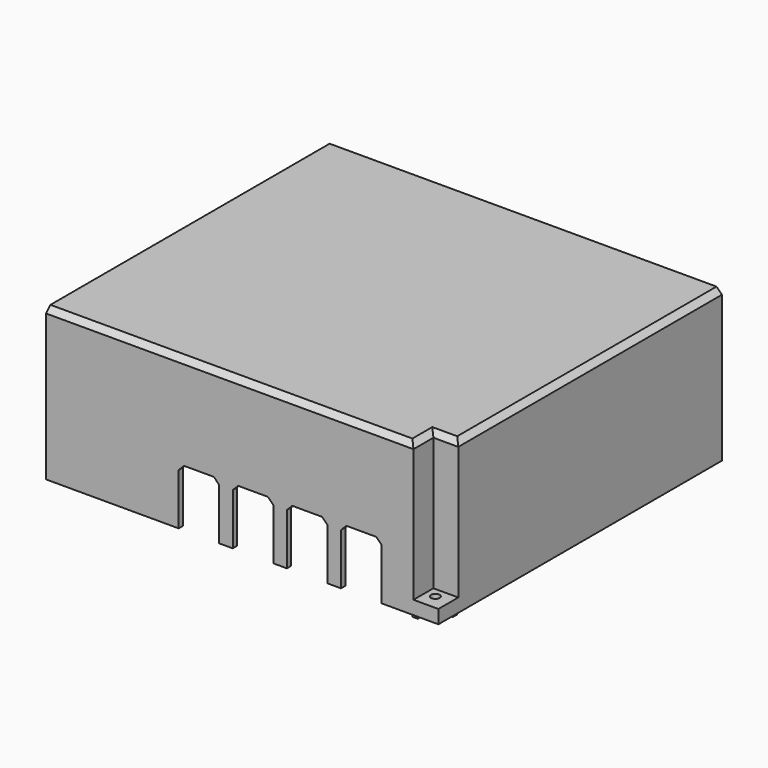
from build123d import *

# Parameters (mm, degrees)
SKETCH_1_W      = 140
SKETCH_1_H      = 116
PAD_DEPTH       = 5
SKETCH_W        = 140
SKETCH_H        = 15
PAD001_DEPTH    = 5
SKETCH001_W     = 131
SKETCH001_H     = 5
PAD002_DEPTH    = 5
SKETCH002_W     = 9.2
SKETCH002_H     = 9.2
POCKET_DEPTH    = 5
SKETCH003_W     = 102.8
SKETCH003_H     = 2
PAD003_DEPTH    = 51
SKETCH004_W     = 2
SKETCH004_H     = 121.8
PAD004_DEPTH    = 51
PAD005_DEPTH    = 53
SKETCH006_W     = 15
SKETCH006_H     = 41
POCKET001_DEPTH = 2
SKETCH007_W     = 9.2
SKETCH007_H     = 5
PAD006_DEPTH    = 9.2
SKETCH008_R     = 1.6
POCKET002_DEPTH = 5
SKETCH009_W     = 33
SKETCH009_H     = 2
PAD007_DEPTH    = 51
SKETCH010_W     = 108.1
SKETCH010_H     = 2.08
POCKET003_DEPTH = 11
SKETCH011_W     = 122.1
SKETCH011_H     = 2.08
POCKET004_DEPTH = 11
CHAMFER_SIZE    = 2
PAD008_DEPTH    = 51
CHAMFER001_SIZE = 2


with BuildPart() as part:
    # Sketch_1 → Pad (new body)
    with BuildSketch(Plane.XY):
        with Locations((-70, 58)):
            Rectangle(SKETCH_1_W, SKETCH_1_H)
    extrude(amount=PAD_DEPTH)

    # Sketch → Pad001 (join)
    with BuildSketch(Plane.XY):
        with Locations((-70, -7.5)):
            Rectangle(SKETCH_W, SKETCH_H)
    extrude(amount=PAD001_DEPTH)

    # Sketch001 (on Face9 of Pad001) → Pad002 (join)
    with BuildSketch(Plane.YZ):
        with Locations((50.5, 2.5)):
            Rectangle(SKETCH001_W, SKETCH001_H)
    extrude(amount=PAD002_DEPTH)

    # Sketch002 (on Face11 of Pad002) → Pocket (cut)
    with BuildSketch(Plane.XY.offset(5)):
        with Locations((0.4, -10.4)):
            Rectangle(SKETCH002_W, SKETCH002_H)
    extrude(amount=-POCKET_DEPTH, mode=Mode.SUBTRACT)

    # Sketch003 (on Face7 of Pocket) → Pad003 (join)
    with BuildSketch(Plane(origin=(0, 0, 0), x_dir=(1, 0, 0), z_dir=(0, 0, -1))):
        with Locations((-55.6, 14)):
            Rectangle(SKETCH003_W, SKETCH003_H)
    extrude(amount=PAD003_DEPTH)

    # Sketch004 (on Face10 of Pad003) → Pad004 (join)
    with BuildSketch(Plane(origin=(0, 0, 0), x_dir=(1, 0, 0), z_dir=(0, 0, -1))):
        with Locations((4, -55.1)):
            Rectangle(SKETCH004_W, SKETCH004_H)
    extrude(amount=PAD004_DEPTH)

    # Sketch005 (on Face7 of Pad004) → Pad005 (join)
    with BuildSketch(Plane(origin=(0, 0, 0), x_dir=(1, 0, 0), z_dir=(0, 0, -1))):
        Polygon((-4.2, 13), (-6.2, 13), (-6.2, 3.8), (3, 3.8), (3, 5.8), (-4.2, 5.8), align=None)
    extrude(amount=PAD005_DEPTH)

    # Sketch006 (on Face12 of Pad005) → Pocket001 (cut)
    with BuildSketch(Plane.XZ.offset(15)):
        with Locations((-23.5, -50.5)):
            Rectangle(SKETCH006_W, SKETCH006_H)
        with Locations((-43.5, -50.5)):
            Rectangle(SKETCH006_W, SKETCH006_H)
        with Locations((-63.5, -50.5)):
            Rectangle(SKETCH006_W, SKETCH006_H)
        with Locations((-83.5, -50.5)):
            Rectangle(SKETCH006_W, SKETCH006_H)
    extrude(amount=-POCKET001_DEPTH, mode=Mode.SUBTRACT)

    # Sketch007 (on Face44 of Pocket001) → Pad006 (join)
    with BuildSketch(Plane.XZ.offset(5.8)):
        with Locations((0.4, -48.5)):
            Rectangle(SKETCH007_W, SKETCH007_H)
    extrude(amount=PAD006_DEPTH)

    # Sketch008 (on Face50 of Pad006) → Pocket002 (cut)
    with BuildSketch(Plane.XY.offset(-46)):
        with Locations((-0.6, -9.4)):
            Circle(SKETCH008_R)
    extrude(amount=-POCKET002_DEPTH, mode=Mode.SUBTRACT)

    # Sketch009 (on Face7 of Pocket002) → Pad007 (join)
    with BuildSketch(Plane(origin=(0, 0, 0), x_dir=(1, 0, 0), z_dir=(0, 0, -1))):
        with Locations((-123.5, 14)):
            Rectangle(SKETCH009_W, SKETCH009_H)
    extrude(amount=PAD007_DEPTH)

    # Sketch010 (on Face1 of Pad007) → Pocket003 (cut)
    with BuildSketch(Plane(origin=(-140, 0, 0), x_dir=(0, -1, 0), z_dir=(-1, 0, 0))):
        with Locations((-41, 2.54)):
            Rectangle(SKETCH010_W, SKETCH010_H)
    extrude(amount=-POCKET003_DEPTH, mode=Mode.SUBTRACT)

    # Sketch011 (on Face3 of Pocket003) → Pocket004 (cut)
    with BuildSketch(Plane(origin=(0, 116, 0), x_dir=(-1, 0, 0), z_dir=(0, 1, 0))):
        with Locations((58, 2.54)):
            Rectangle(SKETCH011_W, SKETCH011_H)
    extrude(amount=-POCKET004_DEPTH, mode=Mode.SUBTRACT)

    # Chamfer
    chamfer_edges = [part.edges().sort_by_distance(p)[0] for p in [
        (-72.1, -15, 5),
        (-4.2, -10.4, 5),
        (-2.1, -5.8, 5),
        (2.5, -5.8, 5),
        (5, 55.1, 5),
    ]]
    chamfer(chamfer_edges, length=CHAMFER_SIZE)

    # Sketch012 (on Face23 of Chamfer) → Pad008 (join)
    with BuildSketch(Plane(origin=(0, 0, 0), x_dir=(1, 0, 0), z_dir=(0, 0, -1))):
        Polygon((2, -114), (2, -117.5), (3, -117.5), (3, -114), (3, -113), align=None)
    extrude(amount=PAD008_DEPTH)

    # Chamfer001
    chamfer001_edges = [part.edges().sort_by_distance(p)[0] for p in [
        (-91, -14, -30),
        (-76, -14, -30),
        (-71, -14, -30),
        (-56, -14, -30),
        (-51, -14, -30),
        (-36, -14, -30),
        (-31, -14, -30),
        (-16, -14, -30),
    ]]
    chamfer(chamfer001_edges, length=CHAMFER001_SIZE)


solid = part.part
